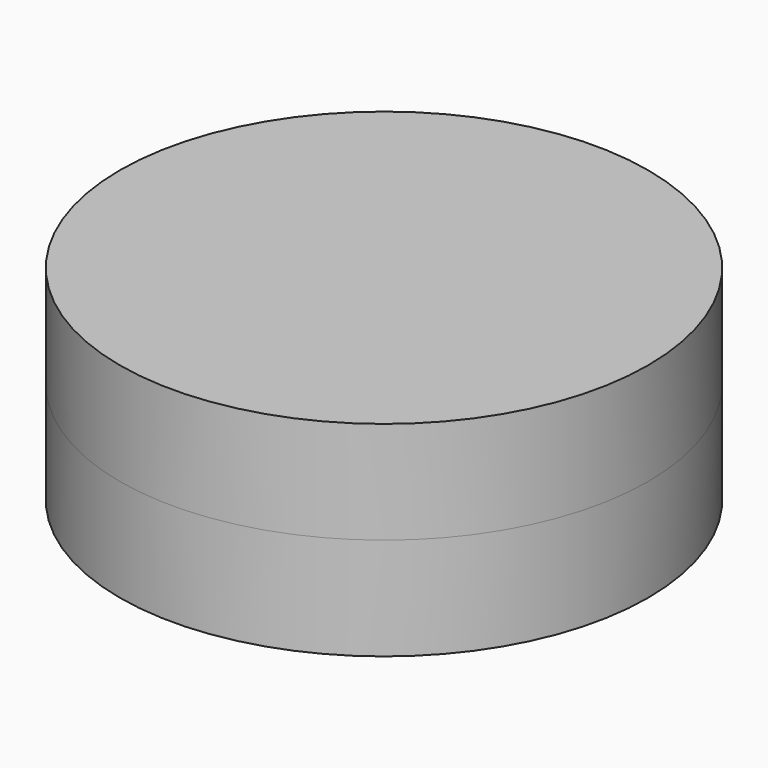
from build123d import *

# Parameters (mm, degrees)
F0_R          = 64.5201872664
F1_DEPTH      = 25
F1_DEPTH_BACK = 25


with BuildPart() as f1:
    # F0 (on Top) → F1 (new body, two sides)
    with BuildSketch(Plane.XY) as f1_sk:
        Circle(F0_R)
    extrude(amount=-F1_DEPTH)
    extrude(f1_sk.sketch, amount=F1_DEPTH_BACK)


solid = f1.part
